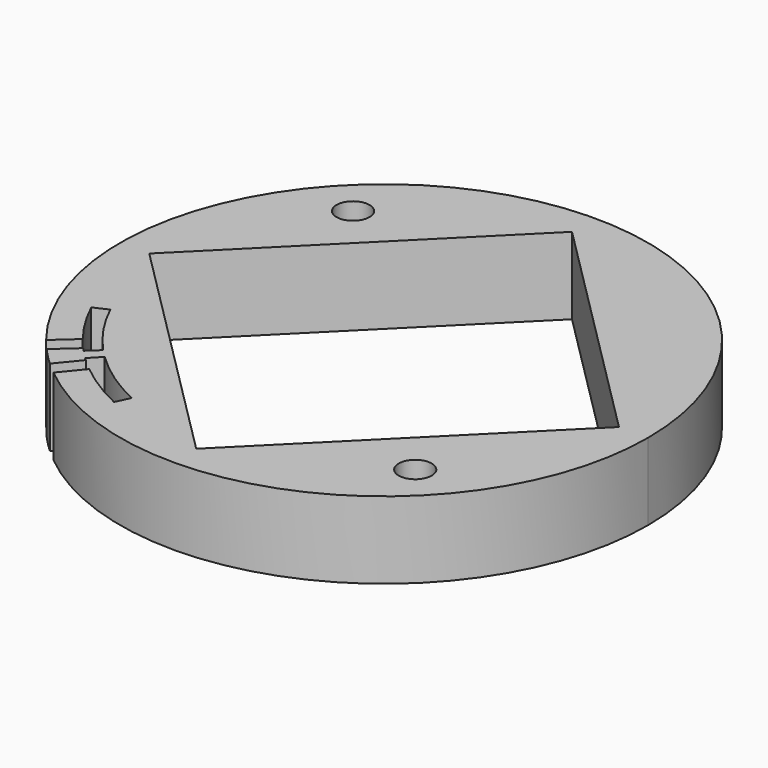
from build123d import *

# Parameters (mm, degrees)
CYLINDER804_R               = 20
CYLINDER804_DEPTH           = 7
BOX313_W                    = 1.4
BOX313_H                    = 60
BOX313_DEPTH                = 7
BOX313_PLACEMENT_ANGLE      = 5.7
BOX314_W                    = 1.4
BOX314_H                    = 60
BOX314_DEPTH                = 7
BOX314_PLACEMENT_ANGLE      = 3
CUT339_PLACEMENT_ANGLE      = 134.9
BOX311_W                    = 60
BOX311_H                    = 60
BOX311_DEPTH                = 7
BOX311_PLACEMENT_ANGLE      = 1
BOX312_W                    = 60
BOX312_H                    = 60
BOX312_DEPTH                = 7
BOX312_PLACEMENT_ANGLE      = 2
BOX310_W                    = 120
BOX310_H                    = 60
BOX310_DEPTH                = 7
TUBE084_R                   = 21.4
TUBE084_R_2                 = 20
TUBE084_DEPTH               = 7
BOX308_W                    = 60
BOX308_H                    = 60
BOX308_DEPTH                = 7
BOX308_PLACEMENT_ANGLE      = 20
BOX307_W                    = 60
BOX307_H                    = 60
BOX307_DEPTH                = 7
BOX307_PLACEMENT_ANGLE      = 20
BOX309_W                    = 120
BOX309_H                    = 60
BOX309_DEPTH                = 7
TUBE085_R                   = 21.4
TUBE085_R_2                 = 20
TUBE085_DEPTH               = 7
CUT335_PLACEMENT_ANGLE      = 135
CYLINDER811_R               = 1.5
CYLINDER811_DEPTH           = 20
CYLINDER811_PLACEMENT_ANGLE = 135
CYLINDER810_R               = 1.5
CYLINDER810_DEPTH           = 20
CYLINDER810_PLACEMENT_ANGLE = 45
BOX_W                       = 30.2
BOX_H                       = 30.2
BOX_DEPTH                   = 100
BOX_PLACEMENT_ANGLE         = 45
CYLINDER_R                  = 24
CYLINDER_DEPTH              = 7


with BuildPart() as obj1:
    # Cylinder804 → Cylinder804 (new body)
    with BuildSketch(Plane.XY.offset(-22)):
        Circle(CYLINDER804_R)
    extrude(amount=CYLINDER804_DEPTH)


with BuildPart() as krychle313:
    # Box313 → Box313 (new body)
    with BuildSketch(Plane.XY):
        with Locations((0.7, 30)):
            Rectangle(BOX313_W, BOX313_H)
    extrude(amount=BOX313_DEPTH)


with BuildPart() as krychle313_1:
    # Box313 placement: moved
    add(krychle313.part.moved(Location((0, 0, -22))).rotate(Axis((0, 0, -22), (0, 0, 1)), BOX313_PLACEMENT_ANGLE))


with BuildPart() as cut339:
    # Box314 → Box314 (new body)
    with BuildSketch(Plane.XY):
        with Locations((0.7, 30)):
            Rectangle(BOX314_W, BOX314_H)
    extrude(amount=BOX314_DEPTH)


with BuildPart() as cut339_1:
    # Box314 placement: moved
    add(cut339.part.moved(Location((0, 0, -22))).rotate(Axis((0, 0, -22), (0, 0, -1)), BOX314_PLACEMENT_ANGLE))

    # Compound720: union Krychle313
    add(krychle313_1.part)

    # Cut339: cut obj1
    add(obj1.part, mode=Mode.SUBTRACT)


with BuildPart() as cut339_2:
    # Cut339 placement: moved
    add(cut339_1.part.rotate(Axis((0, 0, 0), (0, 0, 1)), CUT339_PLACEMENT_ANGLE))


with BuildPart() as krychle311:
    # Box311 → Box311 (new body)
    with BuildSketch(Plane.XY):
        with Locations((30, 30)):
            Rectangle(BOX311_W, BOX311_H)
    extrude(amount=BOX311_DEPTH)


with BuildPart() as krychle311_1:
    # Box311 placement: moved
    add(krychle311.part.moved(Location((-59.990862, -1.047144, -22))).rotate(Axis((-59.990862, -1.047144, -22), (0, 0, 1)), BOX311_PLACEMENT_ANGLE))


with BuildPart() as compound719:
    # Box312 → Box312 (new body)
    with BuildSketch(Plane.XY):
        with Locations((30, 30)):
            Rectangle(BOX312_W, BOX312_H)
    extrude(amount=BOX312_DEPTH)


with BuildPart() as compound719_1:
    # Box312 placement: moved
    add(compound719.part.moved(Location((0, 0, -22))).rotate(Axis((0, 0, -22), (0, 0, -1)), BOX312_PLACEMENT_ANGLE))

    # Compound719: union Krychle311
    add(krychle311_1.part)


with BuildPart() as krychle310:
    # Box310 → Box310 (new body)
    with BuildSketch(Plane(origin=(-60, -60, -22), x_dir=(1, 0, 0), z_dir=(0, 0, 1))):
        with Locations((60, 30)):
            Rectangle(BOX310_W, BOX310_H)
    extrude(amount=BOX310_DEPTH)


with BuildPart() as cut338:
    # Tube084 → Tube084 (new body)
    with BuildSketch(Plane.XY.offset(-22)):
        Circle(TUBE084_R)
        Circle(TUBE084_R_2, mode=Mode.SUBTRACT)
    extrude(amount=TUBE084_DEPTH)

    # Cut337: cut Krychle310
    add(krychle310.part, mode=Mode.SUBTRACT)

    # Cut338: cut Compound719
    add(compound719_1.part, mode=Mode.SUBTRACT)


with BuildPart() as cut338_1:
    # Cut338 placement: moved
    add(cut338.part.moved(Location((0, 0, -7))))


with BuildPart() as krychle308:
    # Box308 → Box308 (new body)
    with BuildSketch(Plane.XY):
        with Locations((30, 30)):
            Rectangle(BOX308_W, BOX308_H)
    extrude(amount=BOX308_DEPTH)


with BuildPart() as krychle308_1:
    # Box308 placement: moved
    add(krychle308.part.moved(Location((-56.381557, -20.521209, -22))).rotate(Axis((-56.381557, -20.521209, -22), (0, 0, 1)), BOX308_PLACEMENT_ANGLE))


with BuildPart() as compound718:
    # Box307 → Box307 (new body)
    with BuildSketch(Plane.XY):
        with Locations((30, 30)):
            Rectangle(BOX307_W, BOX307_H)
    extrude(amount=BOX307_DEPTH)


with BuildPart() as compound718_1:
    # Box307 placement: moved
    add(compound718.part.moved(Location((0, 0, -22))).rotate(Axis((0, 0, -22), (0, 0, -1)), BOX307_PLACEMENT_ANGLE))

    # Compound718: union Krychle308
    add(krychle308_1.part)


with BuildPart() as krychle309:
    # Box309 → Box309 (new body)
    with BuildSketch(Plane(origin=(-60, -60, -22), x_dir=(1, 0, 0), z_dir=(0, 0, 1))):
        with Locations((60, 30)):
            Rectangle(BOX309_W, BOX309_H)
    extrude(amount=BOX309_DEPTH)


with BuildPart() as cut335:
    # Tube085 → Tube085 (new body)
    with BuildSketch(Plane.XY.offset(-22)):
        Circle(TUBE085_R)
        Circle(TUBE085_R_2, mode=Mode.SUBTRACT)
    extrude(amount=TUBE085_DEPTH)

    # Cut334: cut Krychle309
    add(krychle309.part, mode=Mode.SUBTRACT)

    # Cut336: cut Compound718
    add(compound718_1.part, mode=Mode.SUBTRACT)


with BuildPart() as cut335_1:
    # Cut336 placement: moved
    add(cut335.part.moved(Location((0, 0, -7))))

    # Cut335: cut Cut338
    add(cut338_1.part, mode=Mode.SUBTRACT)


with BuildPart() as cut335_2:
    # Cut335 placement: moved
    add(cut335_1.part.moved(Location((0, 0, 7))).rotate(Axis((0, 0, 7), (0, 0, 1)), CUT335_PLACEMENT_ANGLE))


with BuildPart() as obj2:
    # Cylinder811 → Cylinder811 (new body)
    with BuildSketch(Plane.XY):
        Circle(CYLINDER811_R)
    extrude(amount=CYLINDER811_DEPTH)


with BuildPart() as obj2_1:
    # Cylinder811 placement: moved
    add(obj2.part.moved(Location((-14.142136, 14.142136, -30))).rotate(Axis((-14.142136, 14.142136, -30), (0, 0, 1)), CYLINDER811_PLACEMENT_ANGLE))


with BuildPart() as compound721:
    # Cylinder810 → Cylinder810 (new body)
    with BuildSketch(Plane.XY):
        Circle(CYLINDER810_R)
    extrude(amount=CYLINDER810_DEPTH)


with BuildPart() as compound721_1:
    # Cylinder810 placement: moved
    add(compound721.part.moved(Location((14.142136, -14.142136, -30))).rotate(Axis((14.142136, -14.142136, -30), (0, 0, -1)), CYLINDER810_PLACEMENT_ANGLE))

    # Compound721: union obj2
    add(obj2_1.part)


with BuildPart() as krychle:
    # Box → Box (new body)
    with BuildSketch(Plane.XY):
        with Locations((15.1, 15.1)):
            Rectangle(BOX_W, BOX_H)
    extrude(amount=BOX_DEPTH)


with BuildPart() as krychle_1:
    # Box placement: moved
    add(krychle.part.moved(Location((0, -21.354625, -30))).rotate(Axis((0, -21.354625, -30), (0, 0, 1)), BOX_PLACEMENT_ANGLE))


with BuildPart() as cut348:
    # Cylinder → Cylinder (new body)
    with BuildSketch(Plane.XY.offset(-22)):
        Circle(CYLINDER_R)
    extrude(amount=CYLINDER_DEPTH)

    # Cut: cut Krychle
    add(krychle_1.part, mode=Mode.SUBTRACT)

    # Cut343: cut Compound721
    add(compound721_1.part, mode=Mode.SUBTRACT)

    # Cut347: cut Cut335
    add(cut335_2.part, mode=Mode.SUBTRACT)

    # Cut348: cut Cut339
    add(cut339_2.part, mode=Mode.SUBTRACT)


solid = cut348.part
